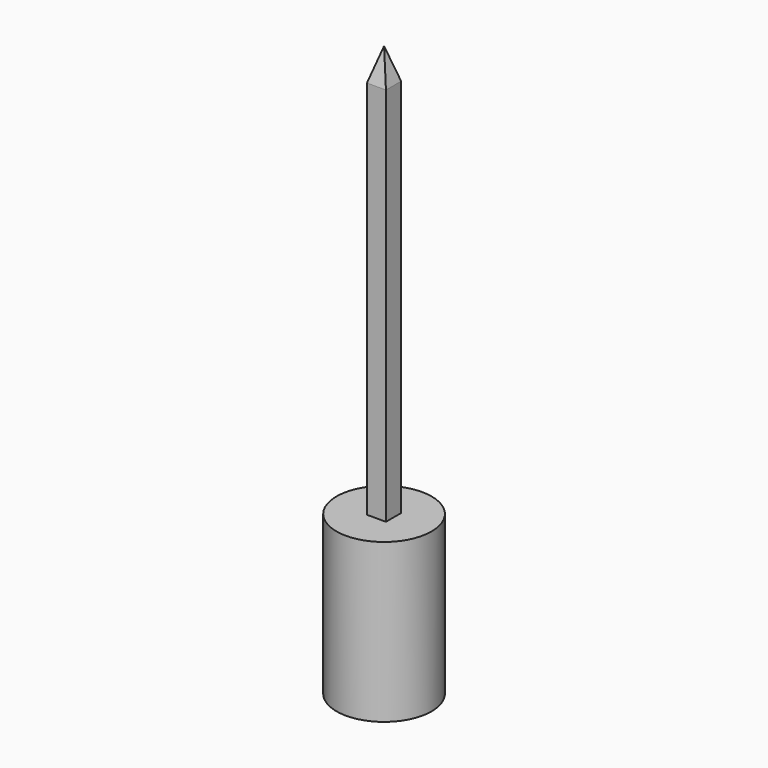
from build123d import *

# Parameters (mm, degrees)
F0_R      = 7.5
F1_DEPTH  = 25
F2_W      = 3
F2_H      = 3
F3_DEPTH  = 60
F3_FACE_W = 3
F3_FACE_H = 3


with BuildPart() as f1:
    # F0 (on Top) → F1 (new body)
    with BuildSketch(Plane.XY):
        Circle(F0_R)
    extrude(amount=F1_DEPTH)

    # F2 (on face) → F3 (join)
    with BuildSketch(Plane.XY.offset(25)):
        Rectangle(F2_W, F2_H)
    extrude(amount=F3_DEPTH)

    # F3_face (on face) → F5 section 0
    with BuildSketch(Plane.XY.offset(85), mode=Mode.PRIVATE) as f5_s0:
        Rectangle(F3_FACE_W, F3_FACE_H)
    loft([f5_s0.sketch, Vertex(0, 0, 90)])


solid = f1.part
